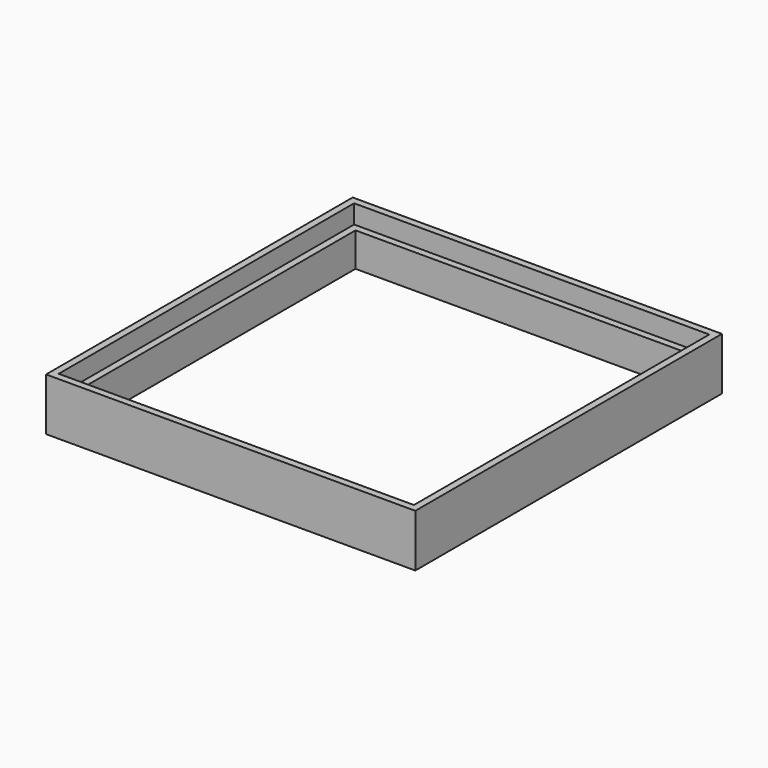
from build123d import *

# Parameters (mm, degrees)
F0_W     = 1930.4
F0_H     = 2006.6
F0_W_2   = 1854.2
F0_H_2   = 1930.4
F1_DEPTH = 184.15
F0_W_3   = 2006.6
F0_H_3   = 2082.8
F2_DEPTH = 285.75


with BuildPart() as f1:
    # F0 (on Top) → F1 (new body)
    with BuildSketch(Plane.XY):
        with Locations((-298.991881, 42.443824)):
            Rectangle(F0_W, F0_H)
        with Locations((-298.991881, 42.443824)):
            Rectangle(F0_W_2, F0_H_2, mode=Mode.SUBTRACT)
    extrude(amount=F1_DEPTH)

    # F0 (on Top) → F2 (join)
    with BuildSketch(Plane.XY):
        with Locations((-298.991881, 42.443824)):
            Rectangle(F0_W_3, F0_H_3)
        with Locations((-298.991881, 42.443824)):
            Rectangle(F0_W, F0_H, mode=Mode.SUBTRACT)
    extrude(amount=F2_DEPTH)


solid = f1.part
